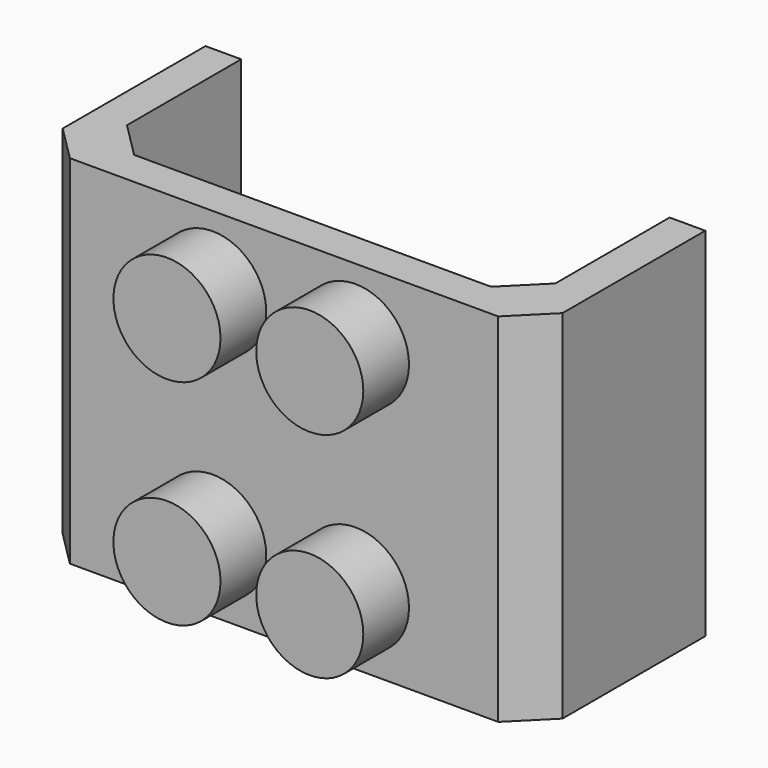
from build123d import *

# Parameters (mm, degrees)
F1_DEPTH = 50
F2_SIZE  = 5
F3_R     = 7.5
F4_DEPTH = 8


with BuildPart() as f1:
    # F0 (on Top) → F1 (new body)
    with BuildSketch(Plane.XY):
        Polygon((-30, 19), (-35, 19), (-35, -11), (0, -11), (35, -11), (35, 19), (30, 19), (30, -6), (0, -6), (-30, -6), align=None)
    extrude(amount=F1_DEPTH)

    # F2
    f2_edges = [f1.edges().sort_by_distance(p)[0] for p in [
        (-30, -6, 25),
        (30, -6, 25),
        (-35, -11, 25),
        (35, -11, 25),
    ]]
    chamfer(f2_edges, length=F2_SIZE)

    # F3 (on face) → F4 (join)
    with BuildSketch(Plane.XZ.offset(11)):
        with Locations((-10, 40)):
            Circle(F3_R)
        with Locations((-10, 10)):
            Circle(F3_R)
        with Locations((10, 40)):
            Circle(F3_R)
        with Locations((10, 10)):
            Circle(F3_R)
    extrude(amount=F4_DEPTH)


solid = f1.part
